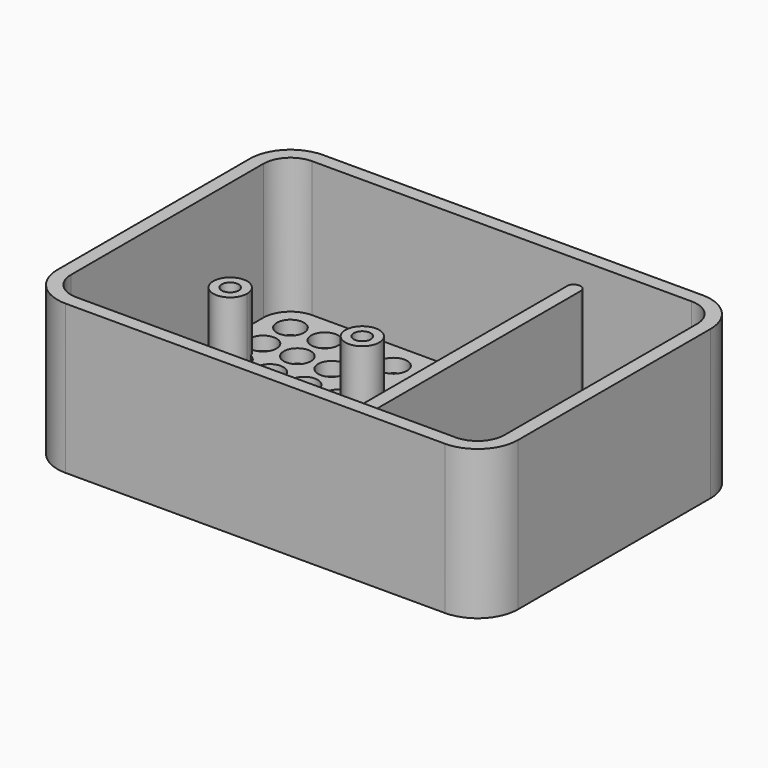
from build123d import *

# Parameters (mm, degrees)
SKETCH002_W           = 2
SKETCH002_H           = 39.5
EXTRUDE002_DEPTH      = 9.5
SKETCH001_R           = 2.5
SKETCH001_R_2         = 1.25
SKETCH001_W           = 2
SKETCH001_H           = 39.5
EXTRUDE001_DEPTH      = 8.5
EXTRUDE001_DEPTH_BACK = 1
SKETCH005_R           = 2
EXTRUDE004_DEPTH      = 2
SKETCH_W              = 68
SKETCH_H              = 47.5
EXTRUDE_DEPTH         = 22
FILLET_R              = 6
THICKNESS_T           = -2
FILLET001_R           = 0.9
FILLET002_R           = 1.5
POCKET001_DEPTH       = 5


with BuildPart() as extrude002:
    # Sketch002 (on Face6 of Extrude001) → Extrude002 (new body)
    with BuildSketch(Plane.XY.offset(10.5)):
        with Locations((13, 0)):
            Rectangle(SKETCH002_W, SKETCH002_H)
    extrude(amount=EXTRUDE002_DEPTH)


with BuildPart() as fusion:
    # Sketch001 (on Face19 of Thickness) → Extrude001 (new body, two sides)
    with BuildSketch(Plane.XY.offset(2)) as extrude001_sk:
        with Locations((-29.5, 8.5)):
            Circle(SKETCH001_R)
        with Locations((-29.5, 8.5)):
            Circle(SKETCH001_R_2, mode=Mode.SUBTRACT)
        with Locations((-10, 8.5)):
            Circle(SKETCH001_R)
        with Locations((-10, 8.5)):
            Circle(SKETCH001_R_2, mode=Mode.SUBTRACT)
        with Locations((-29.5, -8.5)):
            Circle(SKETCH001_R)
        with Locations((-29.5, -8.5)):
            Circle(SKETCH001_R_2, mode=Mode.SUBTRACT)
        with Locations((-10, -8.5)):
            Circle(SKETCH001_R)
        with Locations((-10, -8.5)):
            Circle(SKETCH001_R_2, mode=Mode.SUBTRACT)
        with Locations((13, 0)):
            Rectangle(SKETCH001_W, SKETCH001_H)
    extrude(amount=EXTRUDE001_DEPTH)
    extrude(extrude001_sk.sketch, amount=-EXTRUDE001_DEPTH_BACK)

    # Fusion: union Extrude002
    add(extrude002.part)


with BuildPart() as extrude004:
    # Sketch005 (on Face2 of Thickness) → Extrude004 (new body)
    with BuildSketch(Plane(origin=(0, 0, 0), x_dir=(1, 0, 0), z_dir=(0, 0, -1))):
        with Locations((-28, 17.75)):
            Circle(SKETCH005_R)
        with Locations((-22.93, 17.75)):
            Circle(SKETCH005_R)
        with Locations((-17.86, 17.75)):
            Circle(SKETCH005_R)
        with Locations((-12.79, 17.75)):
            Circle(SKETCH005_R)
        with Locations((-28, 12.68)):
            Circle(SKETCH005_R)
        with Locations((-22.93, 12.68)):
            Circle(SKETCH005_R)
        with Locations((-17.86, 12.68)):
            Circle(SKETCH005_R)
        with Locations((-12.79, 12.68)):
            Circle(SKETCH005_R)
        with Locations((-28, 7.61)):
            Circle(SKETCH005_R)
        with Locations((-22.93, 7.61)):
            Circle(SKETCH005_R)
        with Locations((-17.86, 7.61)):
            Circle(SKETCH005_R)
        with Locations((-12.79, 7.61)):
            Circle(SKETCH005_R)
        with Locations((-28, 2.54)):
            Circle(SKETCH005_R)
        with Locations((-22.93, 2.54)):
            Circle(SKETCH005_R)
        with Locations((-17.86, 2.54)):
            Circle(SKETCH005_R)
        with Locations((-12.79, 2.54)):
            Circle(SKETCH005_R)
        with Locations((-28, -2.53)):
            Circle(SKETCH005_R)
        with Locations((-22.93, -2.53)):
            Circle(SKETCH005_R)
        with Locations((-17.86, -2.53)):
            Circle(SKETCH005_R)
        with Locations((-12.79, -2.53)):
            Circle(SKETCH005_R)
        with Locations((-28, -7.6)):
            Circle(SKETCH005_R)
        with Locations((-22.93, -7.6)):
            Circle(SKETCH005_R)
        with Locations((-17.86, -7.6)):
            Circle(SKETCH005_R)
        with Locations((-12.79, -7.6)):
            Circle(SKETCH005_R)
        with Locations((-28, -12.67)):
            Circle(SKETCH005_R)
        with Locations((-22.93, -12.67)):
            Circle(SKETCH005_R)
        with Locations((-17.86, -12.67)):
            Circle(SKETCH005_R)
        with Locations((-12.79, -12.67)):
            Circle(SKETCH005_R)
        with Locations((-28, -17.74)):
            Circle(SKETCH005_R)
        with Locations((-22.93, -17.74)):
            Circle(SKETCH005_R)
        with Locations((-17.86, -17.74)):
            Circle(SKETCH005_R)
        with Locations((-12.79, -17.74)):
            Circle(SKETCH005_R)
    extrude(amount=-EXTRUDE004_DEPTH)


with BuildPart() as body003:
    # Sketch → Extrude (new body)
    with BuildSketch(Plane.XY):
        Rectangle(SKETCH_W, SKETCH_H)
    extrude(amount=EXTRUDE_DEPTH)

    # Fillet
    fillet_edges = [body003.edges().sort_by_distance(p)[0] for p in [
        (-34, 23.75, 11),
        (34, 23.75, 11),
        (34, -23.75, 11),
        (-34, -23.75, 11),
    ]]
    fillet(fillet_edges, radius=FILLET_R)

    # Thickness
    thickness_openings = [body003.faces().sort_by_distance(p)[0] for p in [
        (0, 0, 22),
    ]]
    offset(amount=THICKNESS_T, openings=thickness_openings)

    # Cut: cut Extrude004
    add(extrude004.part, mode=Mode.SUBTRACT)

    # Fusion001: union Fusion
    add(fusion.part)

    # Fillet001
    fillet001_edges = [body003.edges().sort_by_distance(p)[0] for p in [
        (14, 19.75, 6.25),
        (12, 19.75, 6.25),
        (12, -19.75, 6.25),
        (14, -19.75, 6.25),
        (12, 19.75, 15.25),
        (14, 19.75, 15.25),
        (12, -19.75, 15.25),
        (14, -19.75, 15.25),
    ]]
    fillet(fillet001_edges, radius=FILLET001_R)

    # Fillet002
    fillet002_edges = [body003.edges().sort_by_distance(p)[0] for p in [
        (13.736396, 19.486396, 2),
        (14, 0, 2),
        (13.736396, -19.486396, 2),
        (13, -19.75, 2),
        (12.263604, -19.486396, 2),
        (12, 0, 2),
        (12.263604, 19.486396, 2),
    ]]
    fillet(fillet002_edges, radius=FILLET002_R)

    # Sketch006 (on Face92 of Fillet002) → Pocket001 (cut)
    with BuildSketch(Plane(origin=(0, 23.75, 0), x_dir=(-1, 0, 0), z_dir=(0, 1, 0))):
        with BuildLine():
            ThreePointArc((-25.5, 10), (-29, 6.5), (-25.5, 3))
            Line((-25.5, 3), (-20.5, 3))
            ThreePointArc((-20.5, 3), (-17, 6.5), (-20.5, 10))
            Line((-20.5, 10), (-25.5, 10))
        make_face()
    extrude(amount=-POCKET001_DEPTH, mode=Mode.SUBTRACT)


solid = body003.part
